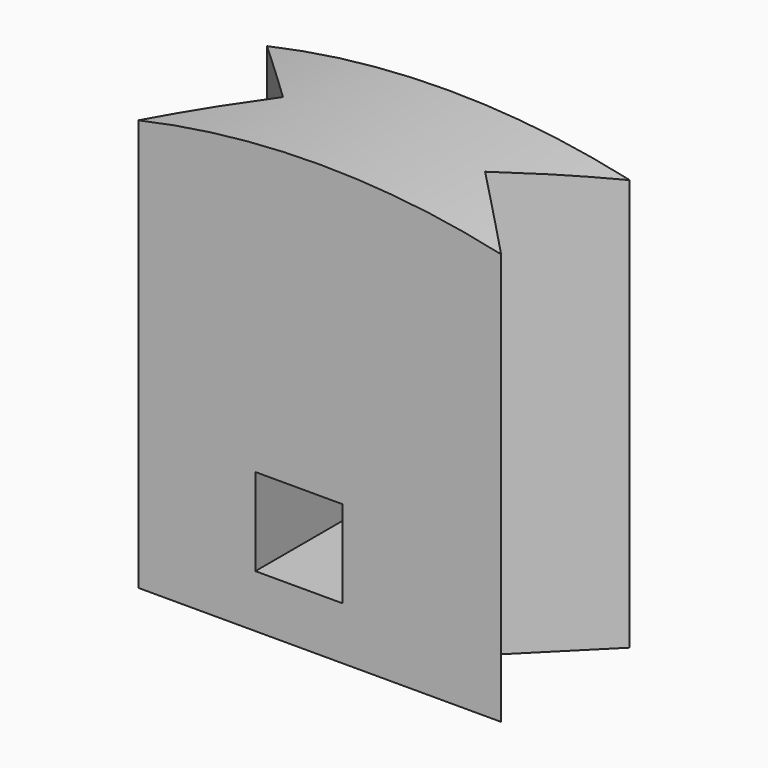
from build123d import *

# Parameters (mm, degrees)
F1_DEPTH = 47
F3_DEPTH = 25
F4_W     = 9.5
F4_H     = 9.5
F5_DEPTH = 25


with BuildPart() as f1:
    # F0 (on Top) → F1 (new body)
    with BuildSketch(Plane.XY):
        Polygon((8.75, 8.75), (0, 0), (39.5, 0), (30.75, 8.75), (39.5, 17.5), (0, 17.5), align=None)
    extrude(amount=F1_DEPTH)

    # F2 (on face) → F3 (cut)
    with BuildSketch(Plane.XZ):
        with BuildLine():
            ThreePointArc((-5.643996, 43.338941), (18.362093, 46.989286), (42.469436, 44.081821))
            Line((42.469436, 44.081821), (45.143996, 47.1))
            Line((45.143996, 47.1), (-5.643996, 47.1))
            Line((-5.643996, 47.1), (-5.643996, 43.338941))
        make_face()
    extrude(amount=-F3_DEPTH, mode=Mode.SUBTRACT)

    # F4 (on face) → F5 (cut)
    with BuildSketch(Plane.XZ):
        with Locations((17.5, 10.5)):
            Rectangle(F4_W, F4_H)
    extrude(amount=-F5_DEPTH, mode=Mode.SUBTRACT)


solid = f1.part
